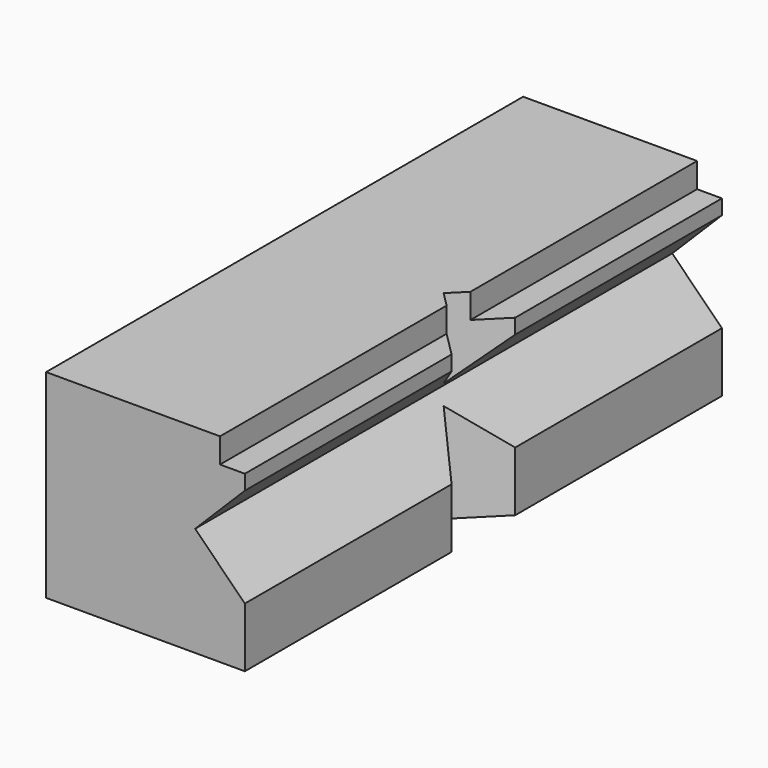
from build123d import *

# Parameters (mm, degrees)
F1_DEPTH = 30
F3_D     = 4.2
F3_DEPTH = 8
F3_TIP   = 1.2618073
F6_DEPTH = 20


with BuildPart() as f1:
    # F0 (on Front) → F1 (new body)
    with BuildSketch(Plane.XZ):
        Polygon((-10, 0), (10, 0), (10, 6), (5, 11), (10, 16), (10, 17.5), (7.5, 17.5), (7.5, 20), (-10, 20), align=None)
    extrude(amount=F1_DEPTH)

    # F3
    with Locations(Plane(origin=(0, 0, 0), x_dir=(1, 0, 0), z_dir=(0, 0, -1))):
        with Locations((0, 15)):
            Hole(F3_D / 2, depth=F3_DEPTH)
            with Locations((0, 0, -(F3_DEPTH + F3_TIP / 2))):  # 118° drill point
                Cone(0, F3_D / 2, F3_TIP, mode=Mode.SUBTRACT)

    # F4: F1 across plane


with BuildPart() as f1_1:
    add(f1.part)
    add(f1.part.mirror(Plane.XZ))

    # F5 (on Top) → F6 (cut, through all)
    with BuildSketch(Plane.XY):
        Polygon((10, 4), (6, 0), (10, -4), align=None)
    extrude(amount=F6_DEPTH, mode=Mode.SUBTRACT)


solid = f1_1.part
